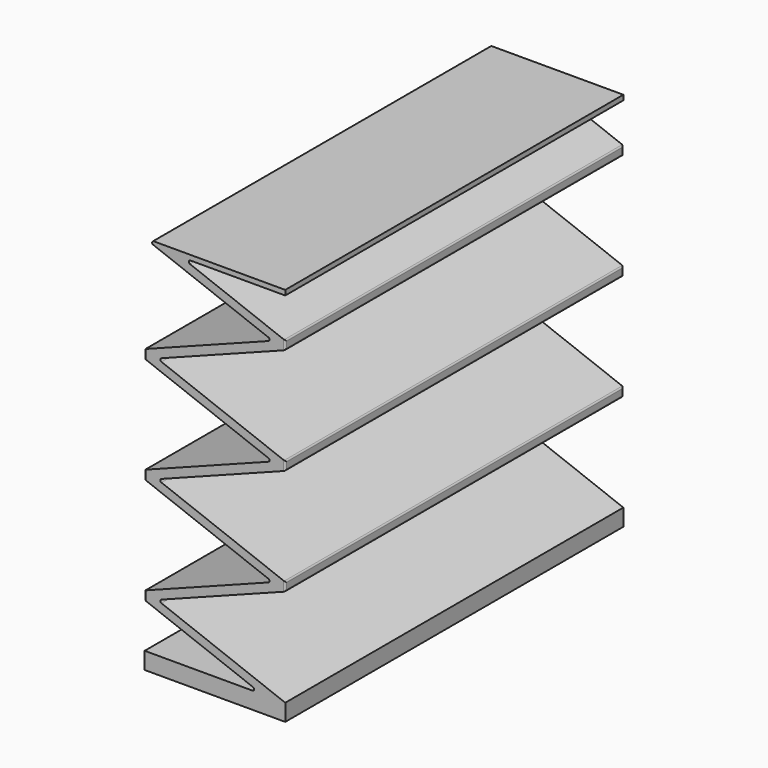
from build123d import *

# Parameters (mm, degrees)
F1_DEPTH = 25
F2_R     = 0.2
F3_R     = 0.2


with BuildPart() as f1:
    # F0 (on Front) → F1 (new body, symmetric)
    with BuildSketch(Plane.XZ):
        Polygon((-8.317317, 2), (-8.317317, 0), (8.317317, 0), (8.317317, 2), (5.515711, 2), align=None)
        Polygon((-8.317317, 7.285714), (5.515711, 2), (8.317317, 2), (-6.82424, 7.785714), (8.317317, 13.571429), (8.317317, 14.571429), (-6.82424, 20.357143), (8.317317, 26.142857), (8.317317, 27.142857), (-6.82424, 32.928571), (8.317317, 38.714286), (8.317317, 39.714286), (-3.974019, 44.410907), (8.317317, 44.410907), (8.317317, 45), (-8.317317, 45), (6.82424, 39.214286), (-8.317317, 33.428571), (-8.317317, 32.428571), (6.82424, 26.642857), (-8.317317, 20.857143), (-8.317317, 19.857143), (6.82424, 14.071429), (-8.317317, 8.285714), align=None)
    extrude(amount=F1_DEPTH, both=True)

    # F2
    f2_edges = [f1.edges().sort_by_distance(p)[0] for p in [
        (-6.82424, 0, 32.928571),
        (-3.974019, 0, 44.410907),
        (-6.82424, 0, 20.357143),
        (-6.82424, 0, 7.785714),
        (5.515711, 0, 2),
        (6.82424, 0, 14.071429),
        (6.82424, 0, 26.642857),
        (6.82424, 0, 39.214286),
    ]]
    fillet(f2_edges, radius=F2_R)

    # F3
    f3_edges = [f1.edges().sort_by_distance(p)[0] for p in [
        (-8.317317, 0, 8.285714),
        (-8.317317, 25, 7.785714),
        (-8.317317, 0, 7.285714),
        (-8.317317, -25, 7.785714),
        (-8.317317, 0, 20.857143),
        (-8.317317, 25, 20.357143),
        (-8.317317, 0, 19.857143),
        (-8.317317, -25, 20.357143),
        (-8.317317, 25, 32.928571),
        (-8.317317, 0, 32.428571),
        (-8.317317, -25, 32.928571),
        (-8.317317, 0, 33.428571),
        (-8.317317, 0, 45),
        (8.317317, 0, 38.714286),
        (8.317317, 25, 39.214286),
        (8.317317, 0, 39.714286),
        (8.317317, -25, 39.214286),
        (8.317317, 0, 26.142857),
        (8.317317, 25, 26.642857),
        (8.317317, 0, 27.142857),
        (8.317317, -25, 26.642857),
        (8.317317, 0, 13.571429),
        (8.317317, 25, 14.071429),
        (8.317317, 0, 14.571429),
        (8.317317, -25, 14.071429),
    ]]
    fillet(f3_edges, radius=F3_R)


solid = f1.part
